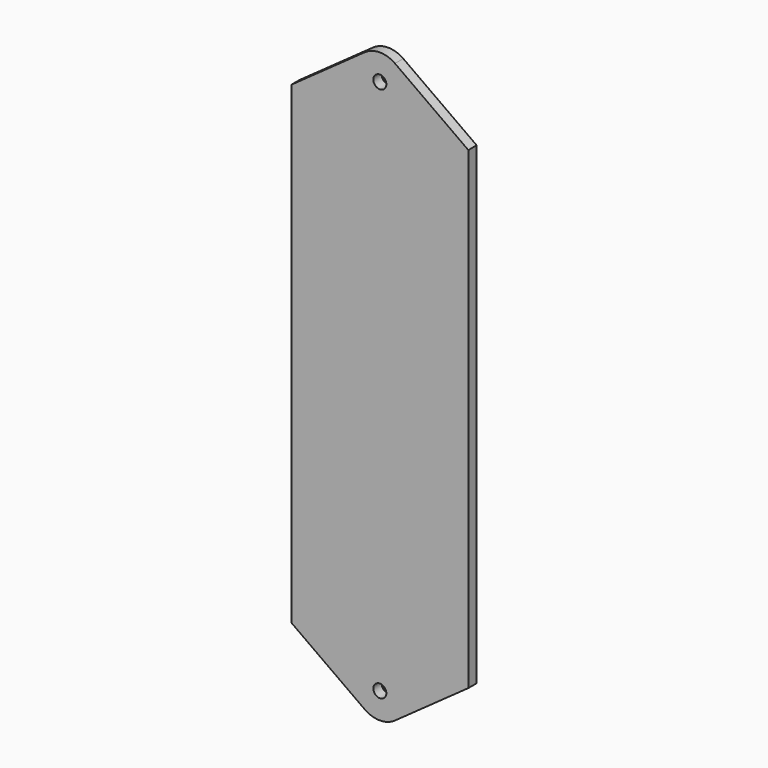
from build123d import *

# Parameters (mm, degrees)
F1_DEPTH = 2
F3_D     = 2.5


with BuildPart() as f1:
    # F0 (on Front) → F1 (new body)
    with BuildSketch(Plane.XZ):
        with BuildLine():
            Line((0, 91), (0, 0))
            Line((0, 0), (14.0934915622, -10.0684405736))
            ThreePointArc((14.0934915622, -10.0684405736), (17, -11), (19.9065084378, -10.0684405736))
            Line((19.9065084378, -10.0684405736), (34, 0))
            Line((34, 0), (34, 91))
            Line((34, 91), (19.9065084378, 101.0684405736))
            ThreePointArc((19.9065084378, 101.0684405736), (17, 102), (14.0934915622, 101.0684405736))
            Line((14.0934915622, 101.0684405736), (0, 91))
        make_face()
    extrude(amount=F1_DEPTH)

    # F3 (through all)
    with Locations(Plane.XZ.offset(2)):
        with Locations((17, -6), (17, 97)):
            Hole(F3_D / 2)


solid = f1.part
